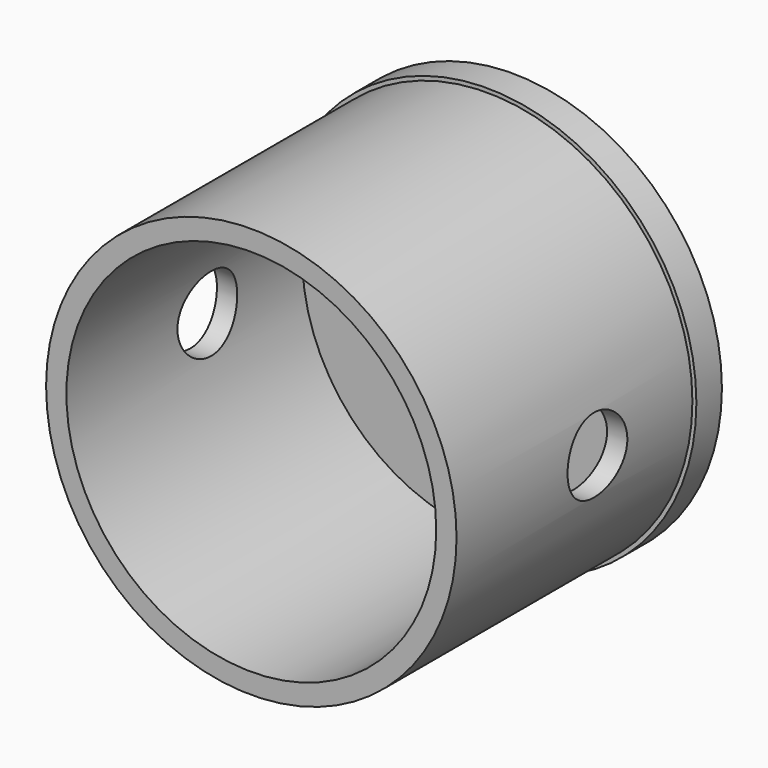
from build123d import *

# Parameters (mm, degrees)
F0_R     = 23.1394
F0_R_2   = 20.850422
F1_DEPTH = 33.243025
F2_R     = 23.588117
F3_DEPTH = 3.598599
F4_R     = 4.212542
F5_DEPTH = 53.346873


with BuildPart() as f1:
    # F0 (on Front) → F1 (new body)
    with BuildSketch(Plane.XZ):
        Circle(F0_R)
        Circle(F0_R_2, mode=Mode.SUBTRACT)
    extrude(amount=F1_DEPTH)

    # F2 (on Front) → F3 (join)
    with BuildSketch(Plane.XZ):
        Circle(F2_R)
    extrude(amount=-F3_DEPTH)

    # F4 (on Right) → F5 (cut, symmetric)
    with BuildSketch(Plane.YZ):
        with Locations((-13.380438, 0)):
            Circle(F4_R)
    extrude(amount=F5_DEPTH, both=True, mode=Mode.SUBTRACT)


solid = f1.part
